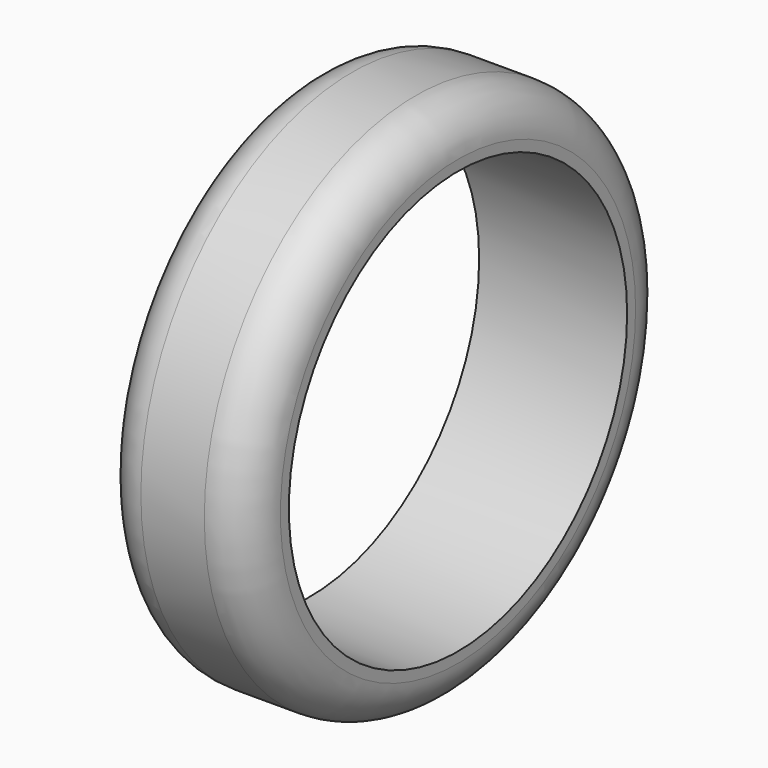
from build123d import *

# Parameters (mm, degrees)
F0_R     = 12.5
F0_R_2   = 10
F1_DEPTH = 7
F2_R     = 2


with BuildPart() as f1:
    # F0 (on Right) → F1 (new body)
    with BuildSketch(Plane.YZ):
        Circle(F0_R)
        Circle(F0_R_2, mode=Mode.SUBTRACT)
    extrude(amount=F1_DEPTH)

    # F2
    f2_edges = [f1.edges().sort_by_distance(p)[0] for p in [
        (3.5, 12.5, 0),
        (0, -12.5, 0),
        (7, -12.5, 0),
    ]]
    fillet(f2_edges, radius=F2_R)


solid = f1.part
